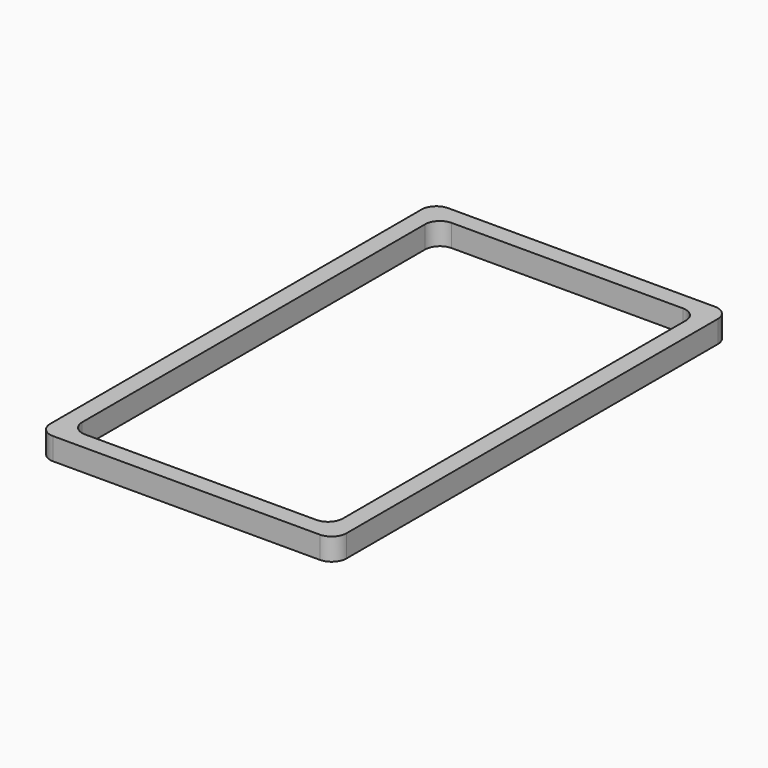
from build123d import *

# Parameters (mm, degrees)
F1_DEPTH = 4.5


with BuildPart() as f1:
    # F0 (on Top) → F1 (new body)
    with BuildSketch(Plane.XY):
        with BuildLine():
            Line((18.45652, -42.993479), (18.45652, -7.232222))
            Line((18.45652, -7.232222), (14.85652, -7.232222))
            Line((14.85652, -7.232222), (14.85652, -39.393479))
            ThreePointArc((14.85652, -39.393479), (13.97784, -41.5148), (11.85652, -42.393479))
            Line((11.85652, -42.393479), (-11.54348, -42.393479))
            Line((-11.54348, -42.393479), (-11.54348, -45.993479))
            Line((-11.54348, -45.993479), (15.45652, -45.993479))
            ThreePointArc((15.45652, -45.993479), (17.57784, -45.1148), (18.45652, -42.993479))
        make_face()
        with BuildLine():
            Line((-37.94348, 5.957209), (-41.54348, 5.957209))
            Line((-41.54348, 5.957209), (-41.54348, -42.993479))
            ThreePointArc((-41.54348, -42.993479), (-40.6648, -45.1148), (-38.54348, -45.993479))
            Line((-38.54348, -45.993479), (-11.54348, -45.993479))
            Line((-11.54348, -45.993479), (-11.54348, -42.393479))
            Line((-11.54348, -42.393479), (-34.94348, -42.393479))
            ThreePointArc((-34.94348, -42.393479), (-37.0648, -41.5148), (-37.94348, -39.393479))
            Line((-37.94348, -39.393479), (-37.94348, 5.957209))
        make_face()
        with BuildLine():
            Line((15.45652, 54.006521), (-11.54348, 54.006521))
            Line((-11.54348, 54.006521), (-11.54348, 50.406521))
            Line((-11.54348, 50.406521), (11.85652, 50.406521))
            ThreePointArc((11.85652, 50.406521), (13.97784, 49.527841), (14.85652, 47.406521))
            Line((14.85652, 47.406521), (14.85652, -7.232222))
            Line((14.85652, -7.232222), (18.45652, -7.232222))
            Line((18.45652, -7.232222), (18.45652, 51.006521))
            ThreePointArc((18.45652, 51.006521), (17.57784, 53.127841), (15.45652, 54.006521))
        make_face()
        with BuildLine():
            Line((-11.54348, 54.006521), (-38.54348, 54.006521))
            ThreePointArc((-38.54348, 54.006521), (-40.6648, 53.127841), (-41.54348, 51.006521))
            Line((-41.54348, 51.006521), (-41.54348, 5.957209))
            Line((-41.54348, 5.957209), (-37.94348, 5.957209))
            Line((-37.94348, 5.957209), (-37.94348, 47.406521))
            ThreePointArc((-37.94348, 47.406521), (-37.0648, 49.527841), (-34.94348, 50.406521))
            Line((-34.94348, 50.406521), (-11.54348, 50.406521))
            Line((-11.54348, 50.406521), (-11.54348, 54.006521))
        make_face()
    extrude(amount=F1_DEPTH)


solid = f1.part
